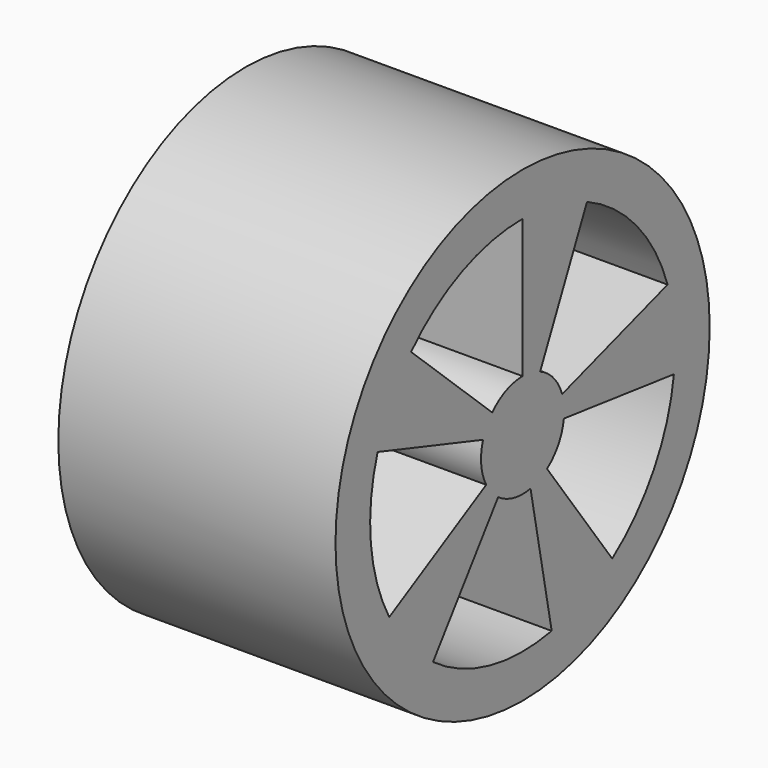
from build123d import *

# Parameters (mm, degrees)
F0_R     = 6.75
F1_DEPTH = 4
F3_DEPTH = 8.001


with BuildPart() as f1:
    # F0 (on Right) → F1 (new body, symmetric)
    with BuildSketch(Plane.YZ):
        Circle(F0_R)
    extrude(amount=F1_DEPTH, both=True)

    # F2 (on face) → F3 (cut, through all)
    with BuildSketch(Plane.YZ.offset(4)):
        with BuildLine():
            ThreePointArc((-1.097031, 1.022998), (-0.598124, 1.37559), (0, 1.5))
            Line((0, 1.5), (0, 5.5))
            ThreePointArc((0, 5.5), (-2.19312, 5.04383), (-4.022445, 3.750991))
            Line((-4.022445, 3.750991), (-1.097031, 1.022998))
        make_face()
        with BuildLine():
            ThreePointArc((0.633927, 1.359462), (1.123434, 0.99393), (1.426585, 0.463525))
            Line((1.426585, 0.463525), (5.230811, 1.699593))
            ThreePointArc((5.230811, 1.699593), (4.119256, 3.64441), (2.3244, 4.984693))
            Line((2.3244, 4.984693), (0.633927, 1.359462))
        make_face()
        with BuildLine():
            Line((5.459004, -0.670281), (1.488819, -0.182804))
            ThreePointArc((1.488819, -0.182804), (1.292444, -0.761308), (0.881678, -1.213525))
            Line((0.881678, -1.213525), (3.232819, -4.449593))
            ThreePointArc((3.232819, -4.449593), (4.73896, -2.791461), (5.459004, -0.670281))
        make_face()
        with BuildLine():
            Line((1.049449, -5.39895), (0.286213, -1.472441))
            ThreePointArc((0.286213, -1.472441), (-0.324659, -1.464444), (-0.881678, -1.213525))
            Line((-0.881678, -1.213525), (-3.232819, -4.449593))
            ThreePointArc((-3.232819, -4.449593), (-1.190418, -5.369628), (1.049449, -5.39895))
        make_face()
        with BuildLine():
            ThreePointArc((-1.31193, -0.727214), (-1.493094, -0.143769), (-1.426585, 0.463525))
            Line((-1.426585, 0.463525), (-5.230811, 1.699593))
            ThreePointArc((-5.230811, 1.699593), (-5.474679, -0.527152), (-4.810408, -2.666453))
            Line((-4.810408, -2.666453), (-1.31193, -0.727214))
        make_face()
    extrude(amount=-F3_DEPTH, mode=Mode.SUBTRACT)


solid = f1.part
